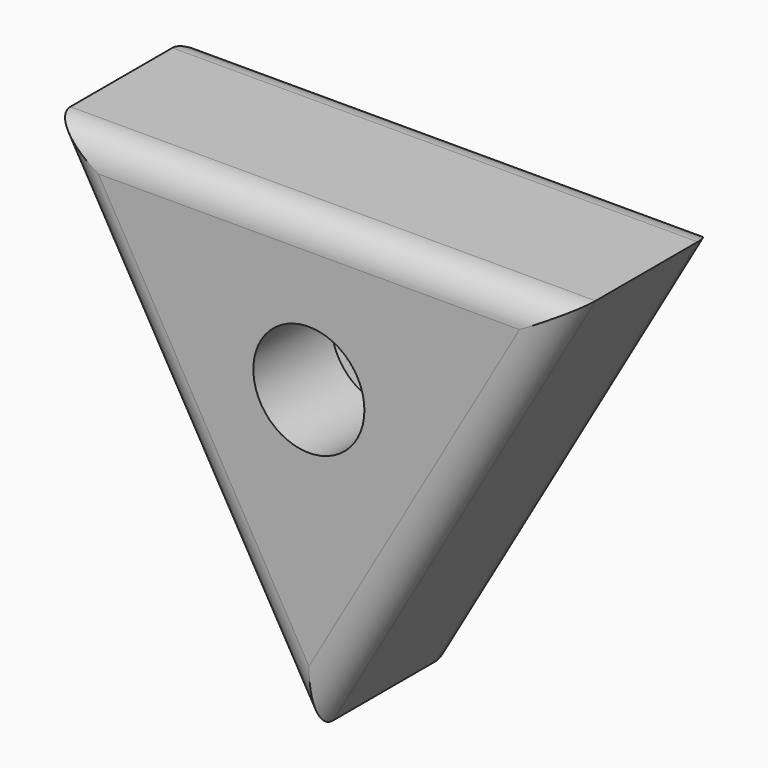
from build123d import *

# Parameters (mm, degrees)
F2_DEPTH = 15.875
F3_DEPTH = 7.62
F4_R     = 4.699
F5_DEPTH = 25.4
F6_R     = 2.54


with BuildPart() as f2:
    # F0 (on Front) → F2 (new body)
    with BuildSketch(Plane.XZ):
        Polygon((22.232984, 12.827), (-22.217016, 12.827), (0.007984, -25.667829), align=None)
    extrude(amount=F2_DEPTH)

    # F1 (on Front) → F3 (cut)
    with BuildSketch(Plane.XZ):
        Polygon((6.159173, -3.556), (8.21223, 0), (4.106115, 7.112), (-4.106115, 7.112), (-8.21223, 0), (-4.106115, -7.112), (4.106115, -7.112), align=None)
    extrude(amount=F3_DEPTH, mode=Mode.SUBTRACT)

    # F4 (on Front) → F5 (cut)
    with BuildSketch(Plane.XZ):
        Circle(F4_R)
    extrude(amount=F5_DEPTH, mode=Mode.SUBTRACT)

    # F6
    f6_edges = [f2.edges().sort_by_distance(p)[0] for p in [
        (-11.104516, 0, -6.420415),
        (0.007984, 0, 12.827),
        (11.120484, 0, -6.420415),
        (0.007984, -15.875, 12.827),
        (-11.104516, -15.875, -6.420415),
        (11.120484, -15.875, -6.420415),
    ]]
    fillet(f6_edges, radius=F6_R)


solid = f2.part
